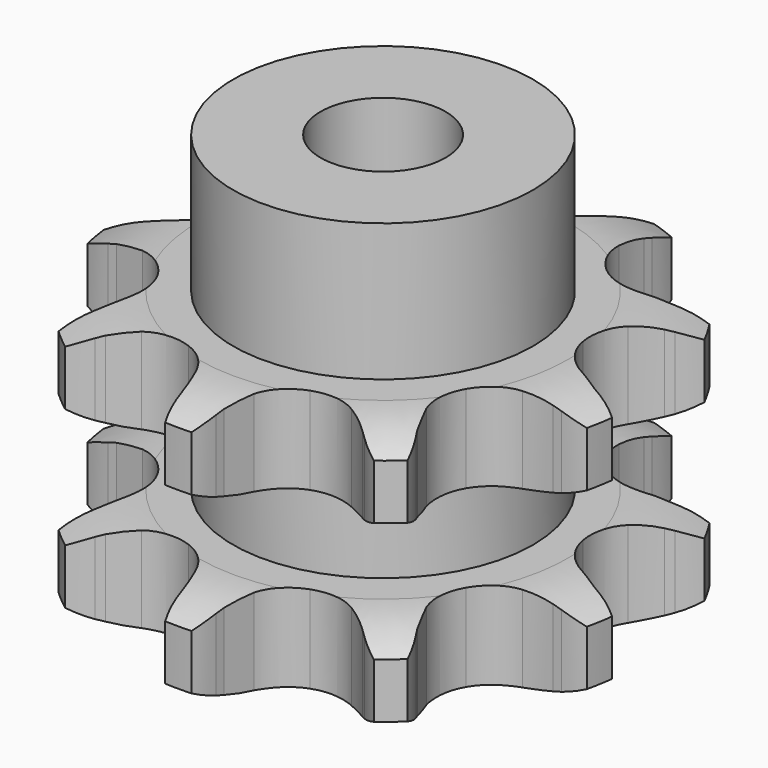
from build123d import *

# Parameters (mm, degrees)
PAD_DEPTH         = 21
SKETCH001_R       = 12
PAD001_DEPTH      = 32
SKETCH002_R       = 5
POCKET_DEPTH      = 0.001
POCKET_DEPTH_BACK = -32.001


with BuildPart() as part:
    # Sprocket → Pad (new body)
    with BuildSketch(Plane.XY):
        with BuildLine():
            ThreePointArc((-7.572353, 20.80487), (-6.050007, 19.640299), (-4.884407, 18.11874))
            Line((-4.884407, 18.11874), (-4.557279, 17.549591))
            ThreePointArc((-4.557279, 17.549591), (-3.937732, 16.589469), (-3.222946, 15.697979))
            ThreePointArc((-3.222946, 15.697979), (-1.766272, 14.629901), (0, 14.251783))
            ThreePointArc((0, 14.251783), (1.766272, 14.629901), (3.222946, 15.697979))
            ThreePointArc((3.222946, 15.697979), (3.937732, 16.589469), (4.557279, 17.549591))
            Line((4.557279, 17.549591), (4.884407, 18.11874))
            ThreePointArc((4.884407, 18.11874), (6.050007, 19.640299), (7.572353, 20.80487))
            ThreePointArc((7.572353, 20.80487), (7.989967, 18.934211), (7.904828, 17.019396))
            Line((7.904828, 17.019396), (7.789581, 16.373129))
            ThreePointArc((7.789581, 16.373129), (7.647027, 15.239396), (7.621546, 14.09702))
            ThreePointArc((7.621546, 14.09702), (8.050877, 12.342492), (9.160869, 10.917499))
            ThreePointArc((9.160869, 10.917499), (10.756962, 10.071817), (12.559387, 9.95368))
            Line((12.559387, 9.95368), (14.771738, 10.514404))
            ThreePointArc((14.771738, 10.514404), (15.07829, 10.631812), (15.388174, 10.740123))
            ThreePointArc((15.388174, 10.740123), (17.259115, 11.156473), (19.173872, 11.07004))
            ThreePointArc((19.173872, 11.07004), (18.291346, 9.368596), (16.995307, 7.956488))
            Line((16.995307, 7.956488), (16.49161, 7.535498))
            ThreePointArc((16.49161, 7.535498), (15.653658, 6.75864), (14.899833, 5.899908))
            ThreePointArc((14.899833, 5.899908), (14.10093, 4.279894), (14.035266, 2.474796))
            ThreePointArc((14.035266, 2.474796), (14.71435, 0.801017), (16.01915, -0.448057))
            Line((16.01915, -0.448057), (18.074336, -1.440589))
            ThreePointArc((18.074336, -1.440589), (18.384638, -1.547697), (18.691644, -1.663916))
            ThreePointArc((18.691644, -1.663916), (20.392491, -2.547591), (21.803723, -3.844585))
            ThreePointArc((21.803723, -3.844585), (20.034001, -4.58069), (18.133492, -4.829349))
            Line((18.133492, -4.829349), (17.477031, -4.828076))
            ThreePointArc((17.477031, -4.828076), (16.335767, -4.884558), (15.206322, -5.057836))
            ThreePointArc((15.206322, -5.057836), (13.553002, -5.785314), (12.342406, -7.125891))
            ThreePointArc((12.342406, -7.125891), (11.78673, -8.844587), (11.983376, -10.640143))
            Line((11.983376, -10.640143), (12.919752, -12.721515))
            ThreePointArc((12.919752, -12.721515), (13.088609, -13.003022), (13.249085, -13.289391))
            ThreePointArc((13.249085, -13.289391), (13.983995, -15.059609), (14.231369, -16.960285))
            ThreePointArc((14.231369, -16.960285), (12.402524, -16.38662), (10.786815, -15.35548))
            Line((10.786815, -15.35548), (10.284755, -14.932539))
            ThreePointArc((10.284755, -14.932539), (9.37419, -14.242218), (8.397604, -13.648963))
            ThreePointArc((8.397604, -13.648963), (6.663474, -13.14351), (4.874397, -13.392295))
            ThreePointArc((4.874397, -13.392295), (3.343968, -14.351711), (2.340446, -15.853588))
            Line((2.340446, -15.853588), (1.719872, -18.049902))
            ThreePointArc((1.719872, -18.049902), (1.668274, -18.374089), (1.607132, -18.696612))
            ThreePointArc((1.607132, -18.696612), (1.032231, -20.525068), (0, -22.14008))
            ThreePointArc((0, -22.14008), (-1.032231, -20.525068), (-1.607132, -18.696612))
            Line((-1.607132, -18.696612), (-1.719872, -18.049902))
            ThreePointArc((-1.719872, -18.049902), (-1.973675, -16.935785), (-2.340446, -15.853588))
            ThreePointArc((-2.340446, -15.853588), (-3.343968, -14.351711), (-4.874397, -13.392295))
            ThreePointArc((-4.874397, -13.392295), (-6.663474, -13.14351), (-8.397604, -13.648963))
            Line((-8.397604, -13.648963), (-10.284755, -14.932539))
            ThreePointArc((-10.284755, -14.932539), (-10.532664, -15.147715), (-10.786815, -15.35548))
            ThreePointArc((-10.786815, -15.35548), (-12.402524, -16.38662), (-14.231369, -16.960285))
            ThreePointArc((-14.231369, -16.960285), (-13.983995, -15.059609), (-13.249085, -13.289391))
            Line((-13.249085, -13.289391), (-12.919752, -12.721515))
            ThreePointArc((-12.919752, -12.721515), (-12.398035, -11.70491), (-11.983376, -10.640143))
            ThreePointArc((-11.983376, -10.640143), (-11.78673, -8.844587), (-12.342406, -7.125891))
            ThreePointArc((-12.342406, -7.125891), (-13.553002, -5.785314), (-15.206322, -5.057836))
            Line((-15.206322, -5.057836), (-17.477031, -4.828076))
            ThreePointArc((-17.477031, -4.828076), (-17.805252, -4.833557), (-18.133492, -4.829349))
            ThreePointArc((-18.133492, -4.829349), (-20.034001, -4.58069), (-21.803723, -3.844585))
            ThreePointArc((-21.803723, -3.844585), (-20.392491, -2.547591), (-18.691644, -1.663916))
            Line((-18.691644, -1.663916), (-18.074336, -1.440589))
            ThreePointArc((-18.074336, -1.440589), (-17.021218, -0.997178), (-16.01915, -0.448057))
            ThreePointArc((-16.01915, -0.448057), (-14.71435, 0.801017), (-14.035266, 2.474796))
            ThreePointArc((-14.035266, 2.474796), (-14.10093, 4.279894), (-14.899833, 5.899908))
            Line((-14.899833, 5.899908), (-16.49161, 7.535498))
            ThreePointArc((-16.49161, 7.535498), (-16.746565, 7.742276), (-16.995307, 7.956488))
            ThreePointArc((-16.995307, 7.956488), (-18.291346, 9.368596), (-19.173872, 11.07004))
            ThreePointArc((-19.173872, 11.07004), (-17.259115, 11.156473), (-15.388174, 10.740123))
            Line((-15.388174, 10.740123), (-14.771738, 10.514404))
            ThreePointArc((-14.771738, 10.514404), (-13.679983, 10.177145), (-12.559387, 9.95368))
            ThreePointArc((-12.559387, 9.95368), (-10.756962, 10.071817), (-9.160869, 10.917499))
            ThreePointArc((-9.160869, 10.917499), (-8.050877, 12.342492), (-7.621546, 14.09702))
            Line((-7.621546, 14.09702), (-7.789581, 16.373129))
            ThreePointArc((-7.789581, 16.373129), (-7.851974, 16.695412), (-7.904828, 17.019396))
            ThreePointArc((-7.904828, 17.019396), (-7.989967, 18.934211), (-7.572353, 20.80487))
        make_face()
    extrude(amount=PAD_DEPTH)

    # Sketch → Groove (revolve, cut)
    with BuildSketch(Plane.XZ):
        with BuildLine():
            ThreePointArc((14.833431, 0), (17.74032, 0.329167), (20.5, 1.3))
            Line((20.5, 1.3), (20.5, 5.7))
            ThreePointArc((20.5, 5.7), (17.74032, 6.670833), (14.833431, 7))
            Line((12, 7), (14.833431, 7))
            Line((12, 14), (12, 7))
            Line((14.833431, 14), (12, 14))
            ThreePointArc((14.833431, 14), (17.74032, 14.329167), (20.5, 15.3))
            Line((20.5, 15.3), (20.5, 19.7))
            ThreePointArc((20.5, 19.7), (17.74032, 20.670833), (14.833431, 21))
            Line((14.833431, 21), (24.833431, 21))
            Line((24.833431, 21), (24.833431, 0))
            Line((14.833431, 0), (24.833431, 0))
        make_face()
    revolve(axis=Axis((0, 0, 0), (0, 0, 1)), mode=Mode.SUBTRACT)

    # Sketch001 → Pad001 (join)
    with BuildSketch(Plane.XY):
        Circle(SKETCH001_R)
    extrude(amount=PAD001_DEPTH)

    # Sketch002 → Pocket (cut, two sides)
    with BuildSketch(Plane.XY) as pocket_sk:
        Circle(SKETCH002_R)
    extrude(amount=-POCKET_DEPTH, mode=Mode.SUBTRACT)
    extrude(pocket_sk.sketch, amount=-POCKET_DEPTH_BACK, mode=Mode.SUBTRACT)


solid = part.part
